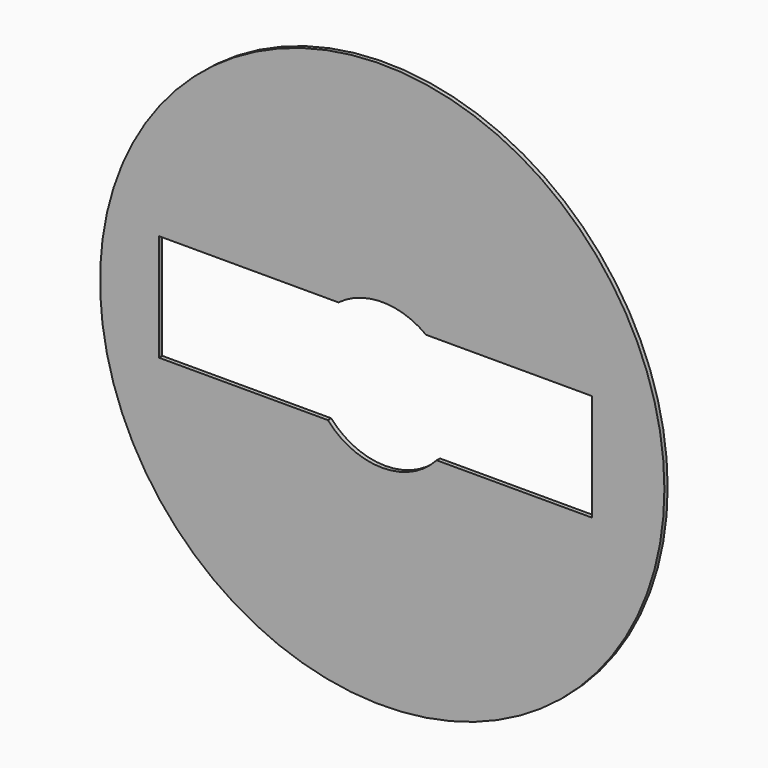
from build123d import *

# Parameters (mm, degrees)
CYLINDER005_R     = 15
CYLINDER005_DEPTH = 17.84
BOX_W             = 89
BOX_H             = 17
BOX_DEPTH         = 22
CYLINDER004_R     = 58
CYLINDER004_DEPTH = 0.84


with BuildPart() as cylinder005:
    # Cylinder005 → Cylinder005 (new body)
    with BuildSketch(Plane.XZ.offset(42.6)):
        Circle(CYLINDER005_R)
    extrude(amount=CYLINDER005_DEPTH)


with BuildPart() as cube:
    # Box → Box (new body)
    with BuildSketch(Plane(origin=(-45.9, -59.6, -10), x_dir=(1, 0, 0), z_dir=(0, 0, 1))):
        with Locations((44.5, 8.5)):
            Rectangle(BOX_W, BOX_H)
    extrude(amount=BOX_DEPTH)


with BuildPart() as base:
    # Cylinder004 → Cylinder004 (new body)
    with BuildSketch(Plane.XZ.offset(49.6)):
        Circle(CYLINDER004_R)
    extrude(amount=CYLINDER004_DEPTH)

    # Cut002: cut Cube
    add(cube.part, mode=Mode.SUBTRACT)

    # Cut003: cut Cylinder005
    add(cylinder005.part, mode=Mode.SUBTRACT)


with BuildPart() as base_1:
    # Cut003 placement: moved
    add(base.part.moved(Location((0, -2, 0))))


solid = base_1.part
